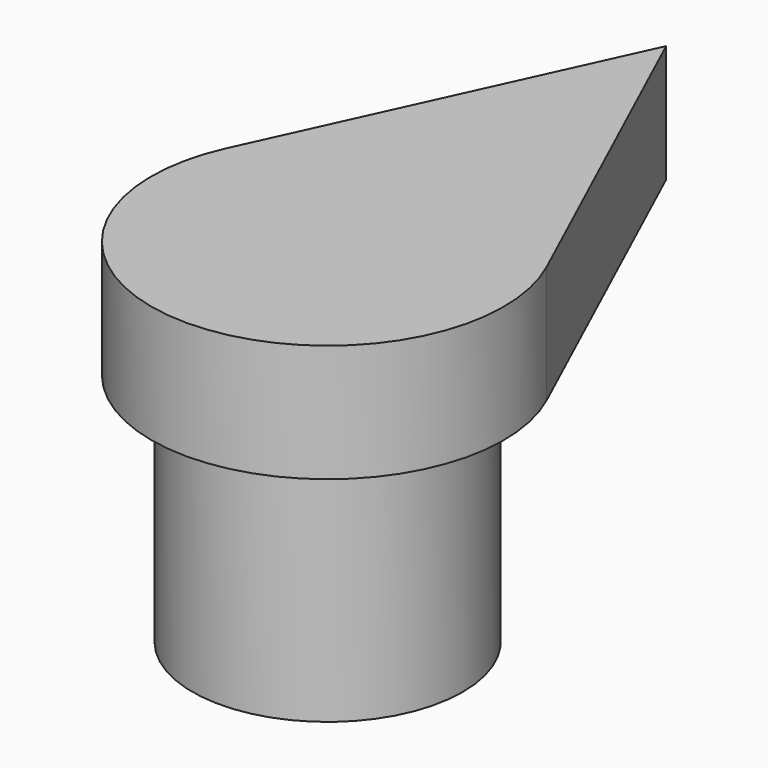
from build123d import *

# Parameters (mm, degrees)
F1_DEPTH = 1.27
F2_R     = 1.4605
F3_DEPTH = 2.54


with BuildPart() as f1:
    # F0 (on Top) → F1 (new body)
    with BuildSketch(Plane.XY):
        with BuildLine():
            Line((0, 4.572), (-1.731758, 0.79375))
            ThreePointArc((-1.731758, 0.79375), (0, -1.905), (1.731758, 0.79375))
            Line((1.731758, 0.79375), (0, 4.572))
        make_face()
    extrude(amount=F1_DEPTH)

    # F2 (on face) → F3 (join)
    with BuildSketch(Plane(origin=(0, 0, 0), x_dir=(1, 0, 0), z_dir=(0, 0, -1))):
        Circle(F2_R)
    extrude(amount=F3_DEPTH)


solid = f1.part
